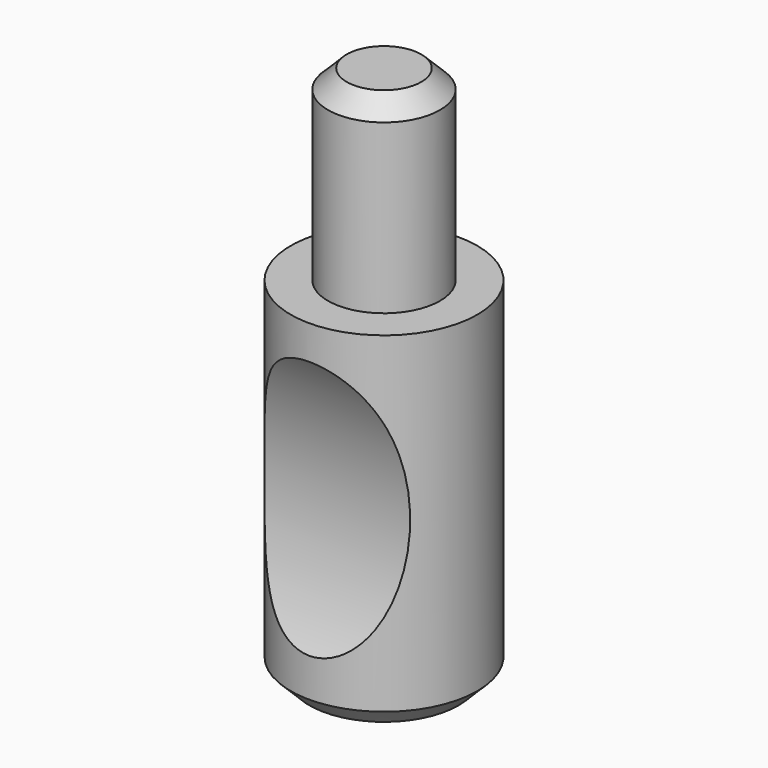
from build123d import *

# Parameters (mm, degrees)
F0_R     = 4
F1_DEPTH = 15
F2_R     = 2.4
F3_DEPTH = 8
F4_SIZE  = 0.8
F5_R     = 11
F6_DEPTH = 5


with BuildPart() as f1:
    # F0 (on Top) → F1 (new body)
    with BuildSketch(Plane.XY):
        Circle(F0_R)
    extrude(amount=F1_DEPTH)

    # F2 (on face) → F3 (join)
    with BuildSketch(Plane.XY.offset(15)):
        Circle(F2_R)
    extrude(amount=F3_DEPTH)

    # F4
    f4_edges = [f1.edges().sort_by_distance(p)[0] for p in [
        (-2.4, 0, 23),
        (-4, 0, 0),
    ]]
    chamfer(f4_edges, length=F4_SIZE)

    # F5 (on Right) → F6 (cut, symmetric)
    with BuildSketch(Plane.YZ):
        with Locations((-13.5, 8)):
            Circle(F5_R)
        with Locations((13.5, 8)):
            Circle(F5_R)
    extrude(amount=F6_DEPTH, both=True, mode=Mode.SUBTRACT)


solid = f1.part
